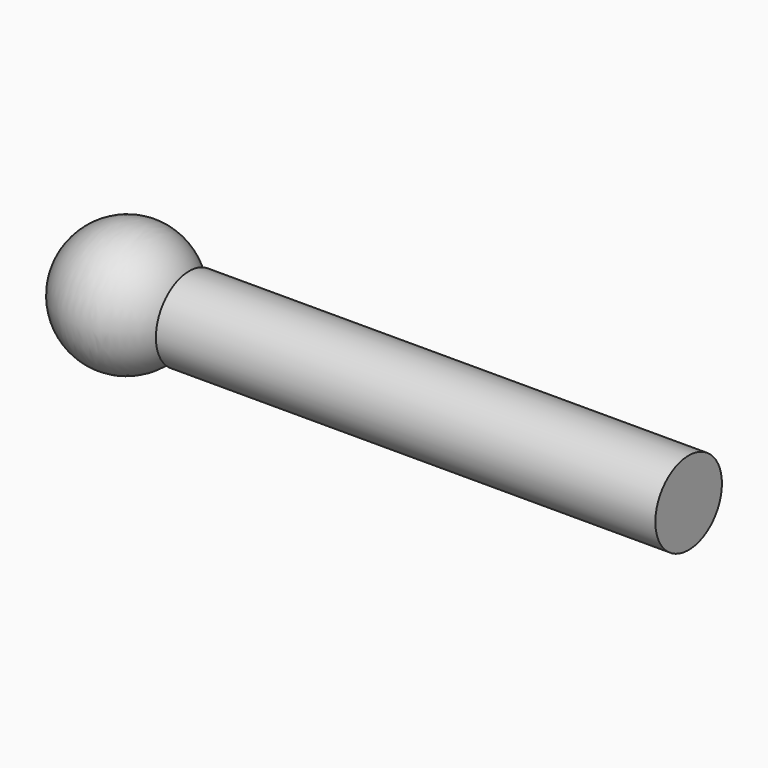
from build123d import *

# Parameters (mm, degrees)
F2_R     = 6.35
F3_DEPTH = 76.2


with BuildPart() as f1:
    # F0 (on Top) → F1 (revolve)
    with BuildSketch(Plane.XY):
        with BuildLine():
            ThreePointArc((0.001109, -0.145349), (0.000832, -0.072672), (0, 0))
            Line((0, 0), (-19.047782, 0))
            ThreePointArc((-19.047782, 0), (-9.596567, -9.670071), (0.001109, -0.145349))
        make_face()
    revolve(axis=Axis((-9.523891, 0, 0), (-1, 0, 0)))

    # F2 (on Right) → F3 (join)
    with BuildSketch(Plane.YZ):
        Circle(F2_R)
    extrude(amount=F3_DEPTH)


solid = f1.part
